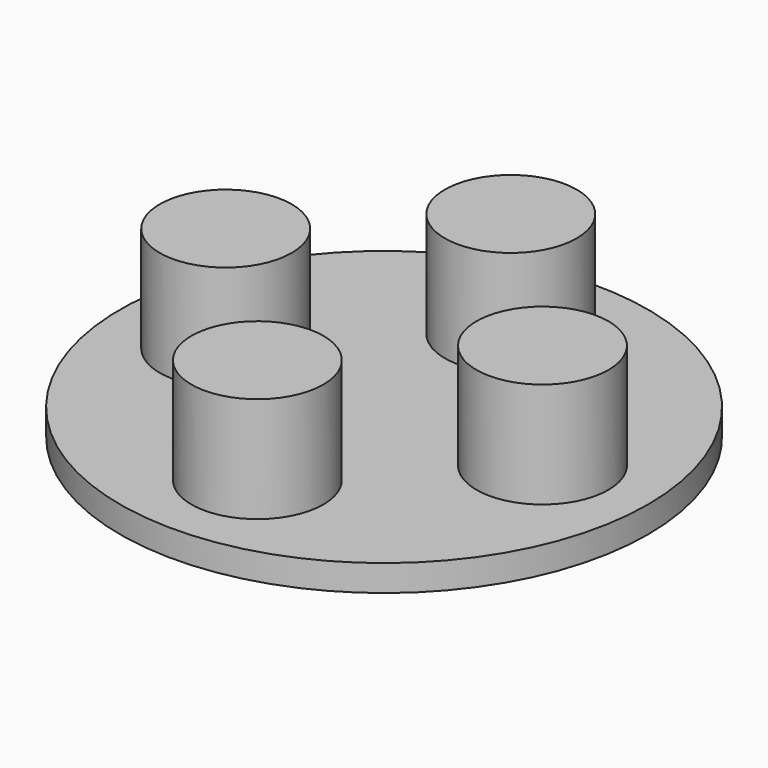
from build123d import *

# Parameters (mm, degrees)
F0_R     = 12.7
F1_DEPTH = 1.27
F3_R     = 3.175
F4_DEPTH = 5.08


with BuildPart() as f1:
    # F0 (on Top) → F1 (new body)
    with BuildSketch(Plane.XY):
        Circle(F0_R)
    extrude(amount=F1_DEPTH)

    # F3 (on offset) → F4 (join)
    with BuildSketch(Plane.XY.offset(1.27)):
        with Locations((0, 7.62)):
            Circle(F3_R)
        with Locations((7.62, 0)):
            Circle(F3_R)
        with Locations((0, -7.62)):
            Circle(F3_R)
        with Locations((-7.62, 0)):
            Circle(F3_R)
    extrude(amount=F4_DEPTH)


solid = f1.part
